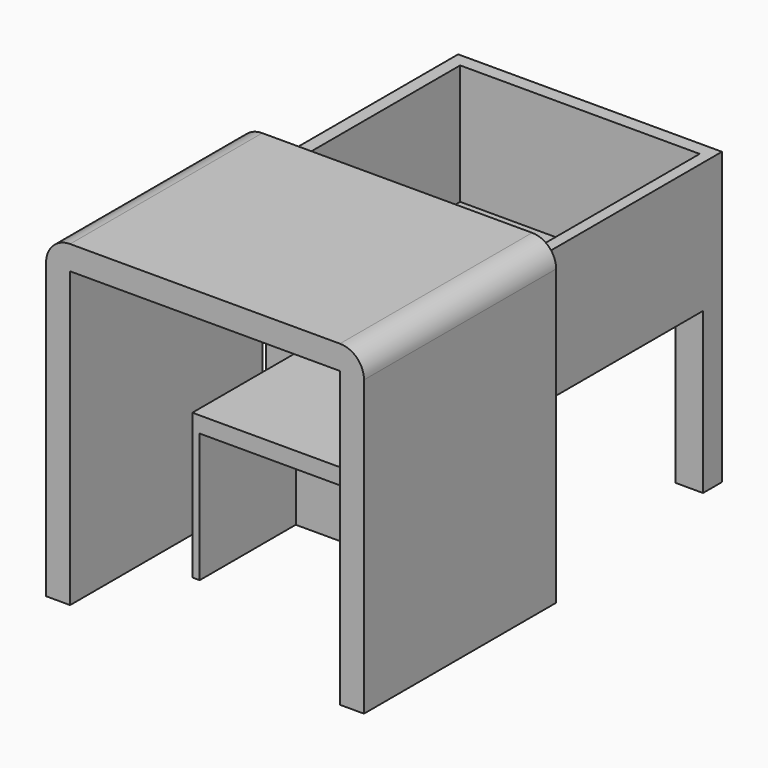
from build123d import *

# Parameters (mm, degrees)
F2_DEPTH  = 50
F3_DEPTH  = 50
F4_W      = 40.7477049157
F4_H      = 33.3784408867
F5_DEPTH  = 90
F1_W      = 39.302748628
F1_H      = 30.2119846428
F6_DEPTH  = 30
F7_W      = 49.8667024076
F7_H      = 45.1001813635
F8_DEPTH  = 25
F9_W      = 36.0871851444
F9_H      = 26.8858615309
F10_DEPTH = 25


with BuildPart() as f2:
    # F0 (on Front) → F2 (new body)
    with BuildSketch(Plane.XZ):
        with BuildLine():
            Line((0, 61.1789029837), (0, 0))
            Line((0, 0), (5, 0))
            Line((5, 0), (5, 61.1789029837))
            Line((5, 61.1789029837), (61.1789029837, 61.1789029837))
            Line((61.1789029837, 61.1789029837), (61.1789029837, 0))
            Line((61.1789029837, 0), (66.1789029837, 0))
            Line((66.1789029837, 0), (66.1789029837, 61.1789029837))
            ThreePointArc((66.1789029837, 61.1789029837), (64.7144368896, 64.7144368896), (61.1789029837, 66.1789029837))
            Line((61.1789029837, 66.1789029837), (5, 66.1789029837))
            ThreePointArc((5, 66.1789029837), (1.4644660941, 64.7144368896), (0, 61.1789029837))
        make_face()
    extrude(amount=F2_DEPTH)


with BuildPart() as f3:
    # F1 (on Front) → F3 (new body)
    with BuildSketch(Plane.XZ):
        Polygon((60.6880784035, 60.5435818434), (5.7798172347, 60.5435818434), (5.7798172347, 31.0665164143), (5.7798172347, 0), (12.9421753809, 0), (12.9421753809, 31.0665164143), (54.9831390381, 31.0665164143), (54.9831390381, 0), (60.6880784035, 0), (60.6880784035, 31.0665164143), align=None)
    extrude(amount=-F3_DEPTH)

    # F4 (on Right) → F5 (cut)
    with BuildSketch(Plane.YZ):
        with Locations((24.7087166645, 16.6892204434)):
            Rectangle(F4_W, F4_H)
    extrude(amount=F5_DEPTH, mode=Mode.SUBTRACT)

    # F7 (on face) → F8 (cut)
    with BuildSketch(Plane.XY.offset(60.5435818434)):
        with Locations((33.4032569081, 24.6041868813)):
            Rectangle(F7_W, F7_H)
    extrude(amount=-F8_DEPTH, mode=Mode.SUBTRACT)


with BuildPart() as f6:
    # F1 (on Front) → F6 (new body)
    with BuildSketch(Plane.XZ):
        with Locations((34.1009176336, 15.1059923214)):
            Rectangle(F1_W, F1_H)
    extrude(amount=F6_DEPTH)

    # F9 (on face) → F10 (cut)
    with BuildSketch(Plane.XZ.offset(30)):
        with Locations((34.0172573924, 13.4429307655)):
            Rectangle(F9_W, F9_H)
    extrude(amount=-F10_DEPTH, mode=Mode.SUBTRACT)


solid = Compound([f2.part, f3.part, f6.part])
